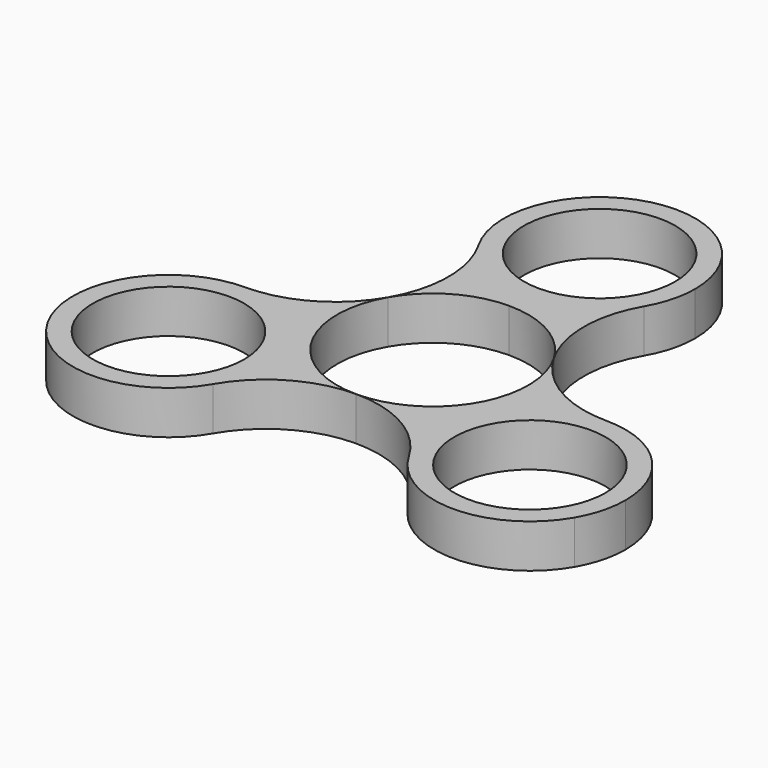
from build123d import *

# Parameters (mm, degrees)
F0_R     = 11.049
F1_DEPTH = 6.35


with BuildPart() as f1:
    # F0 (on Top) → F1 (new body)
    with BuildSketch(Plane.XY):
        with BuildLine():
            ThreePointArc((-26.3964543073, -1.27), (-38.4948290673, -8.2549997732), (-38.4948294602, -22.2249995463))
            ThreePointArc((-38.4948294602, -22.2249995463), (-26.3964545693, -29.21), (-14.2980794165, -22.225))
            ThreePointArc((-14.2980794165, -22.225), (-12.9024705141, -18.8557020601), (-12.4264543073, -15.24))
            ThreePointArc((-12.4264543073, -15.24), (-16.5181725742, -5.3617182668), (-26.3964543073, -1.27))
        make_face()
        with Locations((-26.3964543073, -15.24)):
            Circle(F0_R, mode=Mode.SUBTRACT)
        with BuildLine():
            ThreePointArc((-12.0983748951, 6.9849999927), (-18.141454311, 0.9419205814), (-26.3964543073, -1.27))
            ThreePointArc((-26.3964543073, -1.27), (-16.5181725742, -5.3617182668), (-12.4264543073, -15.24))
            ThreePointArc((-12.4264543073, -15.24), (-12.9024705141, -18.8557020601), (-14.2980794165, -22.225))
            ThreePointArc((-14.2980794165, -22.225), (-8.2549999937, -16.1819205799), (1.45e-08, -13.97))
            ThreePointArc((1.45e-08, -13.97), (-12.0983748851, -6.98500001), (-12.0983748951, 6.9849999927))
        make_face()
    extrude(amount=F1_DEPTH)


with BuildPart() as f1b:
    # F0 (on Top) → F1, piece 2 (new body)
    with BuildSketch(Plane.XY):
        with BuildLine():
            ThreePointArc((0, 16.51), (-6.985, 18.3816251091), (-12.0983748909, 23.495))
            ThreePointArc((-12.0983748909, 23.495), (-9.8864543073, 15.2399999958), (-12.0983748951, 6.9849999927))
            ThreePointArc((-12.0983748951, 6.9849999927), (-6.9850000037, 12.0983748888), (0, 13.97))
            Line((0, 13.97), (0, 16.51))
        make_face()
        with BuildLine():
            ThreePointArc((12.0983749373, 6.9849999196), (9.8864543073, 15.2399999536), (12.0983748909, 23.495))
            ThreePointArc((12.0983748909, 23.495), (6.985, 18.3816251091), (0, 16.51))
            Line((0, 16.51), (0, 13.97))
            ThreePointArc((0, 13.97), (6.9850000402, 12.0983748677), (12.0983749373, 6.9849999196))
        make_face()
        with BuildLine():
            ThreePointArc((13.97, 30.48), (9.8782817686, 40.3582816978), (1.001e-07, 44.45))
            ThreePointArc((1.001e-07, 44.45), (-12.0983748658, 37.4650000434), (-12.0983748909, 23.495))
            ThreePointArc((-12.0983748909, 23.495), (-6.985, 18.3816251091), (0, 16.51))
            ThreePointArc((0, 16.51), (6.985, 18.3816251091), (12.0983748909, 23.495))
            ThreePointArc((12.0983748909, 23.495), (13.4939837933, 26.8642979399), (13.97, 30.48))
        make_face()
        with BuildLine():
            ThreePointArc((11.049, 30.48), (7.8128228253, 22.6671771747), (0, 19.431))
            ThreePointArc((0, 19.431), (-7.8128228253, 38.2928228253), (11.049, 30.48))
        make_face(mode=Mode.SUBTRACT)
    extrude(amount=F1_DEPTH)


with BuildPart() as f1c:
    # F0 (on Top) → F1, piece 3 (new body)
    with BuildSketch(Plane.XY):
        with BuildLine():
            ThreePointArc((14.2980794165, -22.225), (26.396454199, -29.21), (38.4948290898, -22.2250001877))
            ThreePointArc((38.4948290898, -22.2250001877), (39.8904380726, -18.8557021648), (40.3664543073, -15.24))
            ThreePointArc((40.3664543073, -15.24), (36.2747360405, -5.3617182668), (26.3964543073, -1.27))
            ThreePointArc((26.3964543073, -1.27), (14.2980794165, -8.255), (14.2980794165, -22.225))
        make_face()
        with Locations((26.3964543073, -15.24)):
            Circle(F0_R, mode=Mode.SUBTRACT)
        with BuildLine():
            ThreePointArc((1.45e-08, -13.97), (8.2550000063, -16.1819205872), (14.2980794165, -22.225))
            ThreePointArc((14.2980794165, -22.225), (14.2980794165, -8.255), (26.3964543073, -1.27))
            ThreePointArc((26.3964543073, -1.27), (18.1414543475, 0.9419205603), (12.0983749373, 6.9849999196))
            ThreePointArc((12.0983749373, 6.9849999196), (13.4939838053, 3.6157020152), (13.97, 0))
            ThreePointArc((13.97, 0), (9.8782817383, -9.878281728), (1.45e-08, -13.97))
        make_face()
    extrude(amount=F1_DEPTH)


solid = Compound([f1.part, f1b.part, f1c.part])
